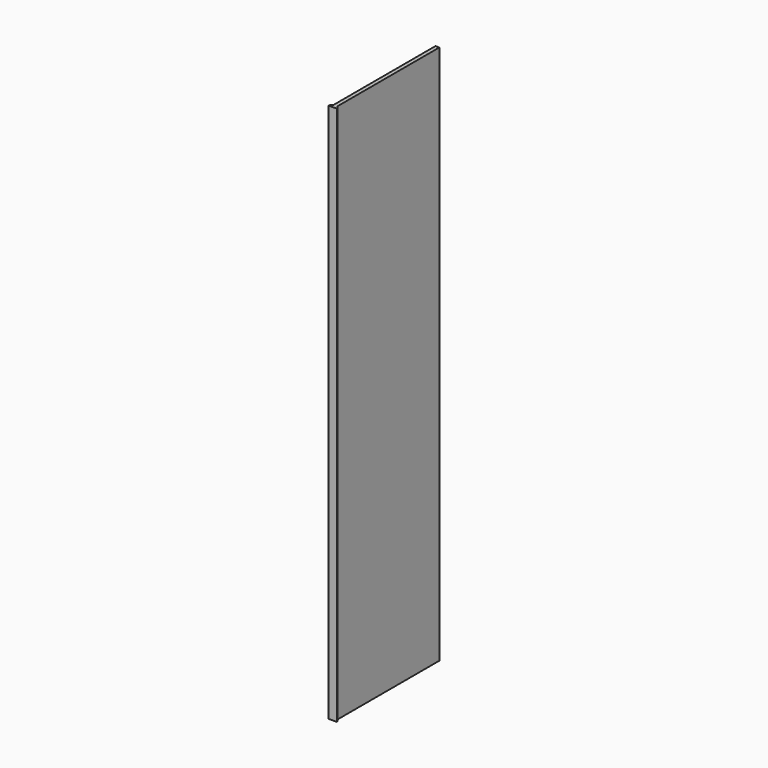
from build123d import *

# Parameters (mm, degrees)
F0_W     = 600
F0_H     = 540
F1_DEPTH = 18
F0_H_2   = 2000
F2_DEPTH = 18
F4_DEPTH = 2540


with BuildPart() as f1:
    # F0 (on Right) → F1 (new body)
    with BuildSketch(Plane.YZ):
        with Locations((0, 1000)):
            Rectangle(F0_W, F0_H)
    extrude(amount=F1_DEPTH)

    # F0 (on Right) → F2 (join)
    with BuildSketch(Plane.YZ):
        with Locations((0, -270)):
            Rectangle(F0_W, F0_H_2)
    extrude(amount=F2_DEPTH)

    # F3 (on face) → F4 (join)
    with BuildSketch(Plane.XY.offset(1270)):
        Polygon((18, -300), (0, -300), (-10, -310), (-10, -315), (28, -315), (28, -310), align=None)
    extrude(amount=-F4_DEPTH)


solid = f1.part
